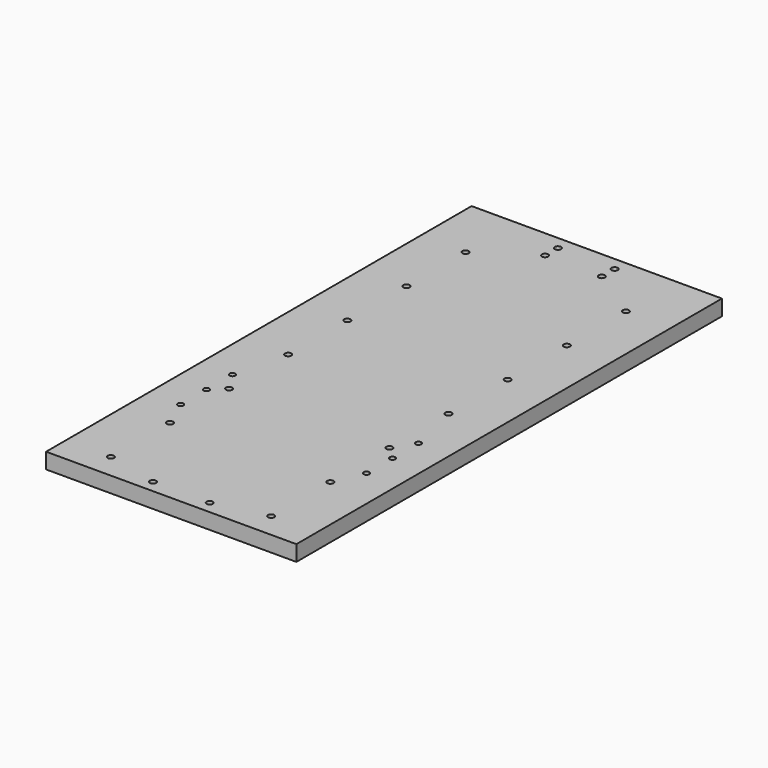
from build123d import *

# Parameters (mm, degrees)
F0_W     = 203.2
F0_H     = 431.8
F0_R     = 2.54
F1_DEPTH = 12.7
F2_R     = 2.54
F3_DEPTH = 12.701
F4_R     = 2.54
F5_DEPTH = 12.7
F6_R     = 2.3114
F7_DEPTH = 25.4
F8_DEPTH = 25.4


with BuildPart() as f1:
    # F0 (on Top) → F1 (new body)
    with BuildSketch(Plane.XY):
        Rectangle(F0_W, F0_H)
        with Locations((-65.0875, -195.834)):
            Circle(F0_R, mode=Mode.SUBTRACT)
        with Locations((-65.0875, -135.8392)):
            Circle(F0_R, mode=Mode.SUBTRACT)
        with Locations((-65.0875, -75.8444)):
            Circle(F0_R, mode=Mode.SUBTRACT)
        with Locations((-65.0875, -15.8496)):
            Circle(F0_R, mode=Mode.SUBTRACT)
        with Locations((65.0875, -195.834)):
            Circle(F0_R, mode=Mode.SUBTRACT)
        with Locations((65.0875, -135.8392)):
            Circle(F0_R, mode=Mode.SUBTRACT)
        with Locations((65.0875, -75.8444)):
            Circle(F0_R, mode=Mode.SUBTRACT)
        with Locations((65.0875, -15.8496)):
            Circle(F0_R, mode=Mode.SUBTRACT)
        with Locations((-65.0875, 44.1452)):
            Circle(F0_R, mode=Mode.SUBTRACT)
        with Locations((-65.0875, 104.14)):
            Circle(F0_R, mode=Mode.SUBTRACT)
        with Locations((-65.0875, 164.1348)):
            Circle(F0_R, mode=Mode.SUBTRACT)
        with Locations((65.0875, 44.1452)):
            Circle(F0_R, mode=Mode.SUBTRACT)
        with Locations((65.0875, 104.14)):
            Circle(F0_R, mode=Mode.SUBTRACT)
        with Locations((65.0875, 164.1348)):
            Circle(F0_R, mode=Mode.SUBTRACT)
    extrude(amount=F1_DEPTH)

    # F2 (on face) → F3 (cut, through all)
    with BuildSketch(Plane.XY.offset(12.7)):
        with Locations((-22.86, 192.0494)):
            Circle(F2_R)
        with Locations((-22.86, 205.0796)):
            Circle(F2_R)
        with Locations((23.1394, 205.0796)):
            Circle(F2_R)
        with Locations((23.1394, 192.0494)):
            Circle(F2_R)
        with Locations((-22.86, -205.867)):
            Circle(F2_R)
        with Locations((23.1394, -205.867)):
            Circle(F2_R)
    extrude(amount=-F3_DEPTH, mode=Mode.SUBTRACT)

    # F4 (on face) → F5 (cut)
    with BuildSketch(Plane(origin=(0, 215.9, 0), x_dir=(-1, 0, 0), z_dir=(0, 1, 0))):
        with Locations((-88.9, 6.35)):
            Circle(F4_R)
        with Locations((-50.8, 6.35)):
            Circle(F4_R)
        with Locations((50.8, 6.35)):
            Circle(F4_R)
        with Locations((88.9, 6.35)):
            Circle(F4_R)
        with Locations((12.7, 6.35)):
            Circle(F4_R)
        with Locations((-12.7, 6.35)):
            Circle(F4_R)
    extrude(amount=-F5_DEPTH, mode=Mode.SUBTRACT)

    # F6 (on face) → F7 (cut)
    with BuildSketch(Plane.XY.offset(12.7)):
        with Locations((-75.4888, -59.451528)):
            Circle(F6_R)
        with Locations((-75.4888, -85.740528)):
            Circle(F6_R)
        with Locations((-75.4888, -112.029528)):
            Circle(F6_R)
        with Locations((75.4888, -59.451528)):
            Circle(F6_R)
        with Locations((75.4888, -85.740528)):
            Circle(F6_R)
        with Locations((75.4888, -112.029528)):
            Circle(F6_R)
    extrude(amount=-F7_DEPTH, mode=Mode.SUBTRACT)

    # F6 (on face) → F8 (cut)
    with BuildSketch(Plane.XY.offset(12.7)):
        with Locations((-75.4888, -59.451528)):
            Circle(F6_R)
        with Locations((-75.4888, -85.740528)):
            Circle(F6_R)
        with Locations((-75.4888, -112.029528)):
            Circle(F6_R)
        with Locations((75.4888, -59.451528)):
            Circle(F6_R)
        with Locations((75.4888, -85.740528)):
            Circle(F6_R)
        with Locations((75.4888, -112.029528)):
            Circle(F6_R)
    extrude(amount=-F8_DEPTH, mode=Mode.SUBTRACT)


solid = f1.part
